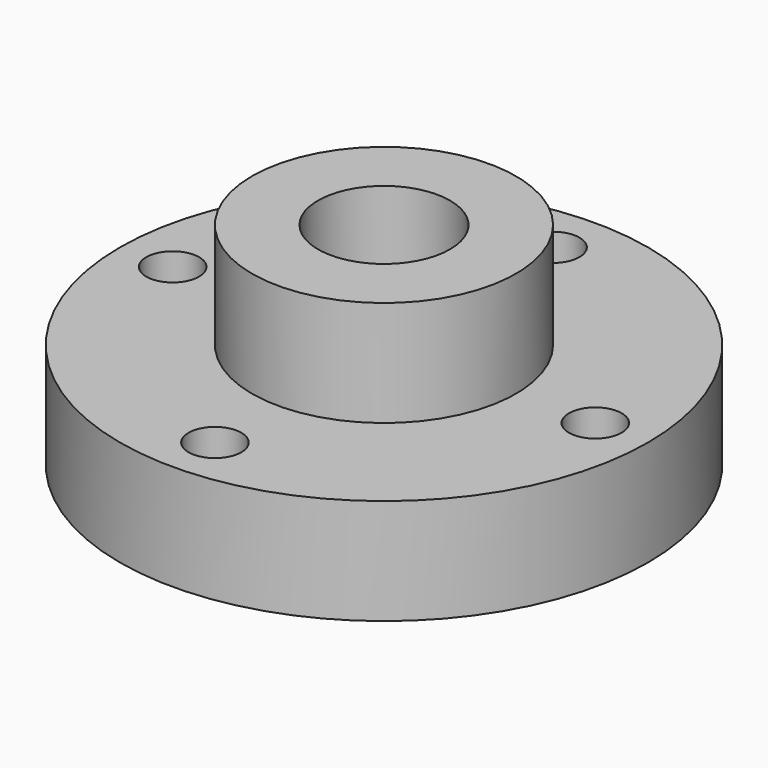
from build123d import *

# Parameters (mm, degrees)
F0_W     = 15.875
F0_H     = 12.7
F2_R     = 7.9375
F3_DEPTH = 25.401
F4_R     = 3.175
F5_DEPTH = 12.701


with BuildPart() as f1:
    # F0 (on Front) → F1 (revolve)
    with BuildSketch(Plane.XZ):
        Polygon((-31.75, 0), (0, 0), (0, 12.7), (-15.875, 12.7), (-31.75, 12.7), align=None)
        with Locations((-7.9375, 19.05)):
            Rectangle(F0_W, F0_H)
    revolve(axis=Axis((0, 0, 2.126115), (0, 0, -1)))

    # F2 (on face) → F3 (cut, through all)
    with BuildSketch(Plane.XY.offset(25.4)):
        Circle(F2_R)
    extrude(amount=-F3_DEPTH, mode=Mode.SUBTRACT)

    # F4 (on face) → F5 (cut, through all)
    with BuildSketch(Plane.XY.offset(12.7)):
        with Locations((0, 25.4)):
            Circle(F4_R)
        with Locations((25.4, 0)):
            Circle(F4_R)
        with Locations((0, -25.4)):
            Circle(F4_R)
        with Locations((-25.4, 0)):
            Circle(F4_R)
    extrude(amount=-F5_DEPTH, mode=Mode.SUBTRACT)


solid = f1.part
